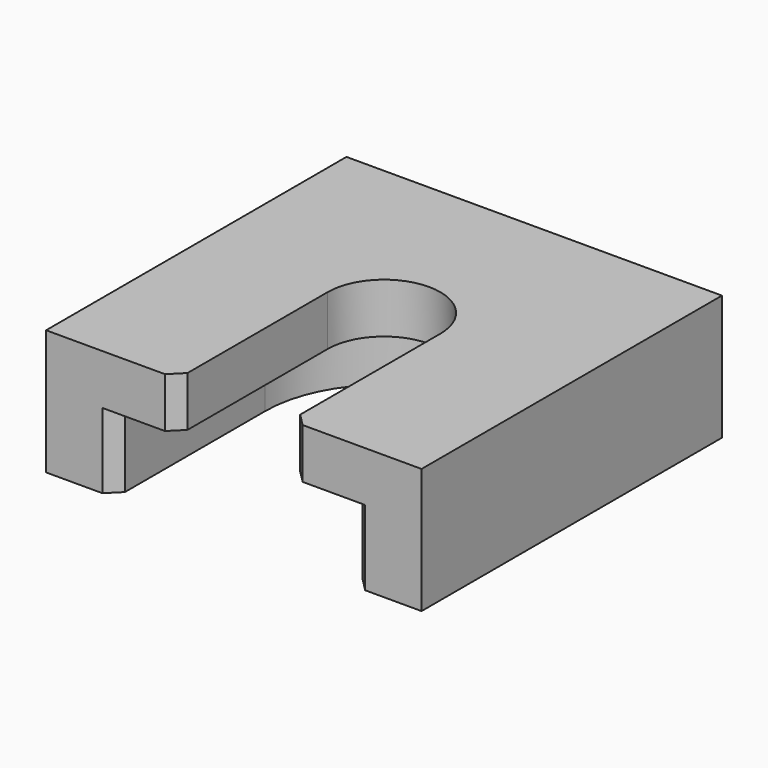
from build123d import *

# Parameters (mm, degrees)
F1_DEPTH = 10
F3_DEPTH = 6
F4_SIZE  = 1


with BuildPart() as f1:
    # F0 (on Top) → F1 (new body)
    with BuildSketch(Plane.XY):
        with BuildLine():
            Line((-15, 30), (-15, 0))
            Line((-15, 0), (-4.5, 0))
            Line((-4.5, 0), (-4.5, 15))
            ThreePointArc((-4.5, 15), (0, 19.5), (4.5, 15))
            Line((4.5, 15), (4.5, 0))
            Line((4.5, 0), (15, 0))
            Line((15, 0), (15, 30))
            Line((15, 30), (-15, 30))
        make_face()
    extrude(amount=F1_DEPTH)

    # F2 (on Top) → F3 (cut)
    with BuildSketch(Plane.XY):
        with BuildLine():
            Line((4.5, 0), (9.5, 0))
            Line((9.5, 0), (9.5, 15))
            ThreePointArc((9.5, 15), (0, 24.5), (-9.5, 15))
            Line((-9.5, 15), (-9.5, 0))
            Line((-9.5, 0), (-4.5, 0))
            Line((-4.5, 0), (-4.5, 15))
            ThreePointArc((-4.5, 15), (0, 19.5), (4.5, 15))
            Line((4.5, 15), (4.5, 0))
        make_face()
    extrude(amount=F3_DEPTH, mode=Mode.SUBTRACT)

    # F4
    f4_edges = [f1.edges().sort_by_distance(p)[0] for p in [
        (-9.5, 0, 3),
        (-4.5, 0, 8),
        (9.5, 0, 3),
        (4.5, 0, 8),
    ]]
    chamfer(f4_edges, length=F4_SIZE)


solid = f1.part
